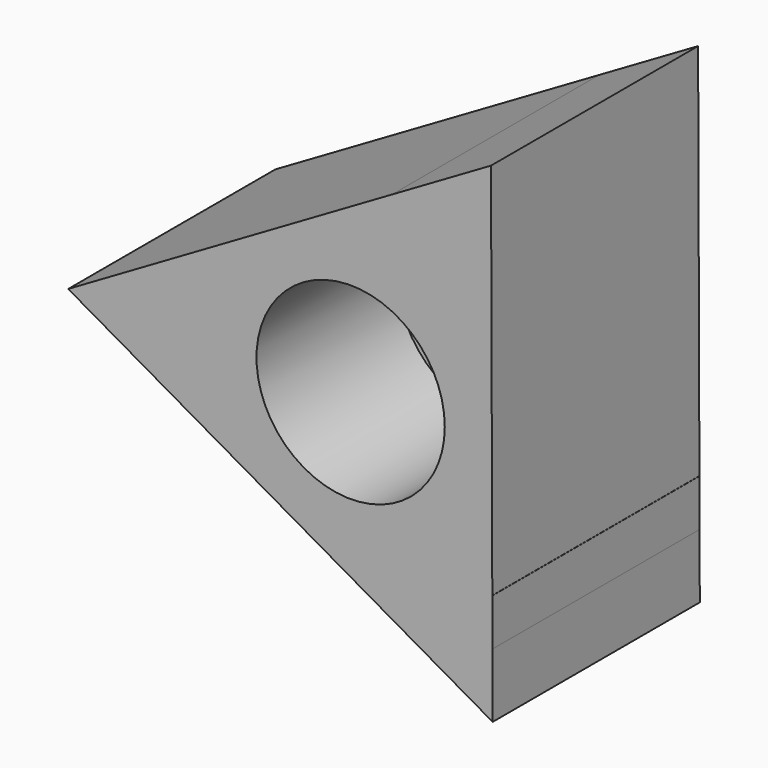
from build123d import *

# Parameters (mm, degrees)
F0_R     = 50.8
F1_DEPTH = 6.35
F2_DEPTH = 38.1
F3_DEPTH = 63.5


with BuildPart() as f1:
    # F0 (on Front) → F1 (new body, symmetric)
    with BuildSketch(Plane.XZ):
        Circle(F0_R)
        Polygon((0, -47.0656435661), (-38.1, 18.9254922023), (38.1, 18.9254922023), align=None, mode=Mode.SUBTRACT)
    extrude(amount=F1_DEPTH, both=True)

    # F0 (on Front) → F2 (join, symmetric)
    with BuildSketch(Plane.XZ):
        with BuildLine():
            add(Edge.make_bspline(
                [(75.8723819512, 94.9205090511), (75.9331390119, 77.3418365937), (1.5317360093, 89.0560595825), (22.3357510028, 101.1633279928)],
                knots=[0, 0, 0, 0, 53.8993844273, 53.8993844273, 53.8993844273, 53.8993844273], degree=3))
            Line((22.3357510028, 101.1633279928), (-119.3492407465, 18.707214336))
            Line((-119.3492407465, 18.707214336), (-152.3990897254, -0.5267360641))
            Line((-152.3990897254, -0.5267360641), (-119.5423719358, -19.3454558368))
            Line((-119.5423719358, -19.3454558368), (76.6557116753, -131.7181151837))
            Line((76.6557116753, -131.7181151837), (76.5361384347, -97.1223199462))
            Line((76.5361384347, -97.1223199462), (25.7361384347, -97.1223199462))
            Line((25.7361384347, -97.1223199462), (25.7361384347, -71.7223199462))
            Line((25.7361384347, -71.7223199462), (76.4483485663, -71.7223199462))
            Line((76.4483485663, -71.7223199462), (75.8723819512, 94.9205090511))
        make_face()
        Circle(F0_R, mode=Mode.SUBTRACT)
        with BuildLine():
            Line((75.7433780501, 132.2448512478), (22.3357510028, 101.1633279928))
            add(Edge.make_bspline(
                [(75.8723819512, 94.9205090511), (75.9331390119, 77.3418365937), (1.5317360093, 89.0560595825), (22.3357510028, 101.1633279928)],
                knots=[0, 0, 0, 0, 53.8993844273, 53.8993844273, 53.8993844273, 53.8993844273], degree=3))
            Line((75.8723819512, 94.9205090511), (75.7433780501, 132.2448512478))
        make_face()
        Polygon((76.5361384347, -71.7223199462), (76.4483485663, -71.7223199462), (76.5361384347, -97.1223199462), align=None)
        Polygon((76.5361384347, -97.1223199462), (76.4483485663, -71.7223199462), (25.7361384347, -71.7223199462), (25.7361384347, -97.1223199462), align=None)
    extrude(amount=F2_DEPTH, both=True)

    # F3 (add, symmetric): a face of the model
    f3_faces = [f1.faces().sort_by_distance(p)[0] for p in [
        (73.1010560932, -38.1, -114.4322968597),
    ]]
    extrude(f3_faces, amount=F3_DEPTH, both=True)


solid = f1.part
